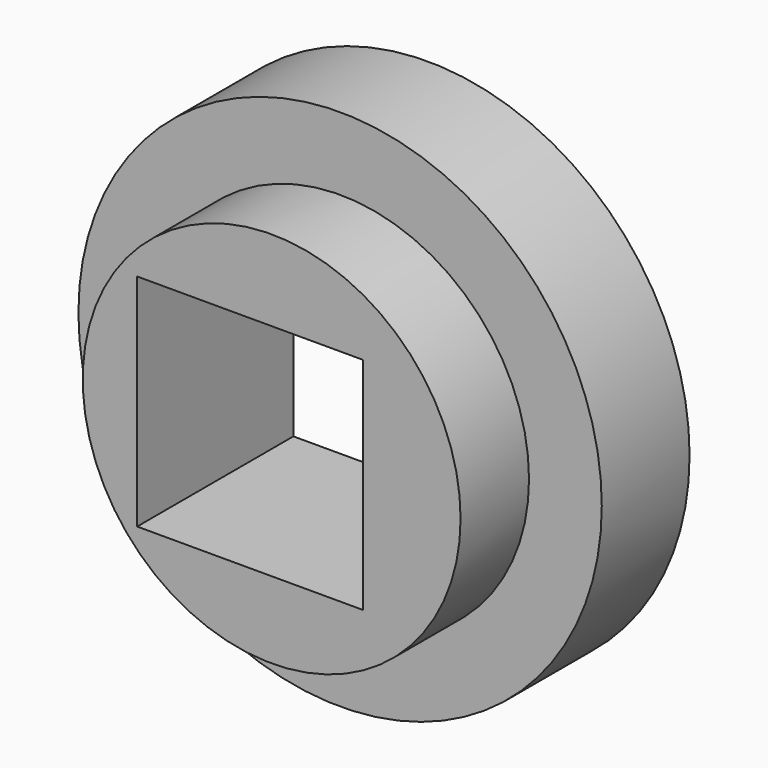
from build123d import *

# Parameters (mm, degrees)
F0_R     = 60.567537
F1_DEPTH = 25.4
F2_R     = 43.725742
F3_DEPTH = 19.801166
F4_W     = 52.260071
F4_H     = 50.955355
F5_DEPTH = 118.063478


with BuildPart() as f1:
    # F0 (on Front) → F1 (new body)
    with BuildSketch(Plane.XZ):
        Circle(F0_R)
    extrude(amount=F1_DEPTH)

    # F2 (on face) → F3 (join)
    with BuildSketch(Plane.XZ.offset(25.4)):
        Circle(F2_R)
    extrude(amount=F3_DEPTH)

    # F4 (on face) → F5 (cut)
    with BuildSketch(Plane(origin=(0, 0, 0), x_dir=(-1, 0, 0), z_dir=(0, 1, 0))):
        with Locations((5.000293, -0.476226)):
            Rectangle(F4_W, F4_H)
    extrude(amount=-F5_DEPTH, mode=Mode.SUBTRACT)


solid = f1.part
